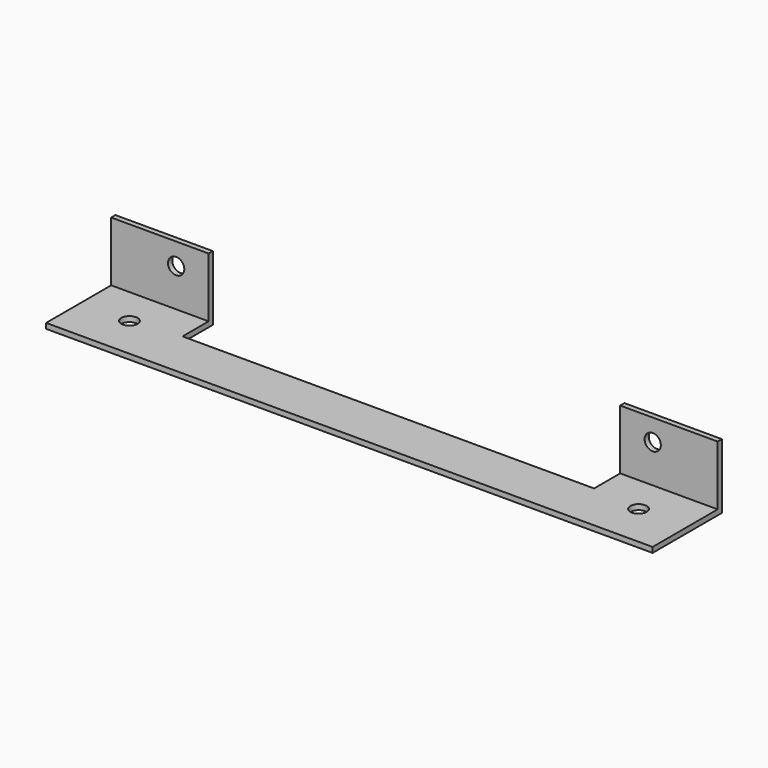
from build123d import *

# Parameters (mm, degrees)
F1_DEPTH = 3.0988
F0_W     = 57.15
F0_H     = 3.0988
F2_DEPTH = 38.1
F5_D     = 9.525
F5_DEPTH = 12.7
F5_TIP   = 2.8615986981
F7_D     = 9.525
F7_DEPTH = 12.7
F7_TIP   = 2.8615986981


with BuildPart() as f1:
    # F0 (on Top) → F1 (new body)
    with BuildSketch(Plane.XY):
        Polygon((120.65, 0), (-120.65, 0), (-120.65, 19.1262), (-177.8, 19.1262), (-177.8, -28.575), (177.8, -28.575), (177.8, 19.1262), (120.65, 19.1262), align=None)
    extrude(amount=F1_DEPTH)

    # F0 (on Top) → F2 (join)
    with BuildSketch(Plane.XY):
        with Locations((-149.225, 20.6756)):
            Rectangle(F0_W, F0_H)
        with Locations((149.225, 20.6756)):
            Rectangle(F0_W, F0_H)
    extrude(amount=F2_DEPTH)

    # F5
    with Locations(Plane.XZ.offset(-19.1262)):
        with Locations((-139.7, 25.4), (139.7, 25.4)):
            Hole(F5_D / 2, depth=F5_DEPTH)
            with Locations((0, 0, -(F5_DEPTH + F5_TIP / 2))):  # 118° drill point
                Cone(0, F5_D / 2, F5_TIP, mode=Mode.SUBTRACT)

    # F7
    with Locations(Plane.XY.offset(3.0988)):
        with Locations((-149.225, -3.175), (149.225, -3.175)):
            Hole(F7_D / 2, depth=F7_DEPTH)
            with Locations((0, 0, -(F7_DEPTH + F7_TIP / 2))):  # 118° drill point
                Cone(0, F7_D / 2, F7_TIP, mode=Mode.SUBTRACT)


solid = f1.part
